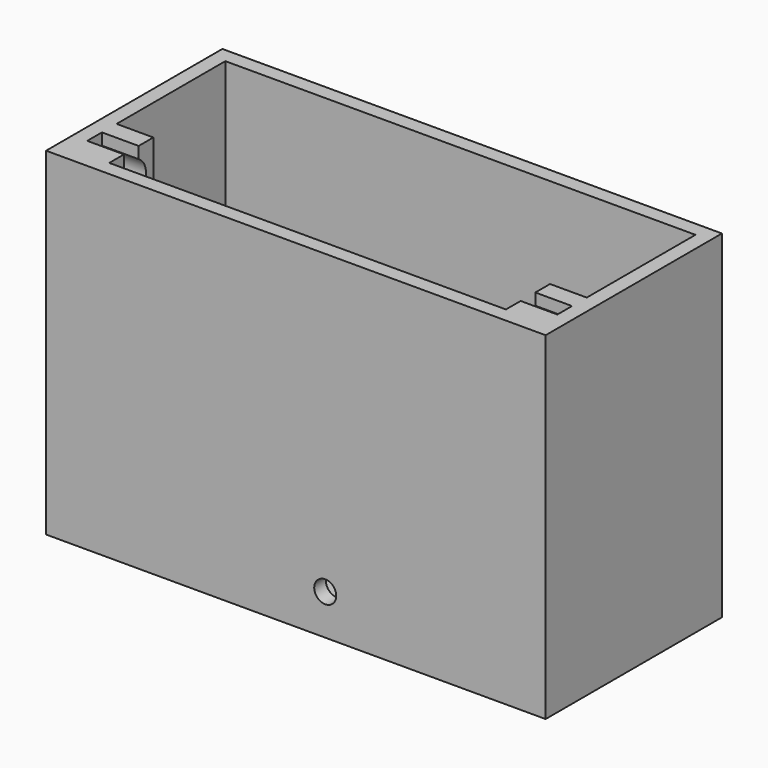
from build123d import *

# Parameters (mm, degrees)
F0_W     = 68
F0_H     = 30
F0_W_2   = 64
F0_H_2   = 26
F1_DEPTH = 46
F2_DEPTH = 2
F3_R     = 1.5
F4_DEPTH = 3
F6_DEPTH = 5
F8_DEPTH = 5


with BuildPart() as f1:
    # F0 (on Top) → F1 (new body)
    with BuildSketch(Plane.XY):
        Rectangle(F0_W, F0_H)
        Rectangle(F0_W_2, F0_H_2, mode=Mode.SUBTRACT)
    extrude(amount=F1_DEPTH)

    # F0 (on Top) → F2 (join)
    with BuildSketch(Plane.XY):
        Rectangle(F0_W, F0_H)
        Rectangle(F0_W_2, F0_H_2, mode=Mode.SUBTRACT)
        Rectangle(F0_W_2, F0_H_2)
    extrude(amount=F2_DEPTH)

    # F3 (on face) → F4 (cut)
    with BuildSketch(Plane.XZ.offset(15)):
        with Locations((4, 5.5)):
            Circle(F3_R)
    extrude(amount=-F4_DEPTH, mode=Mode.SUBTRACT)

    # F5 (on face) → F6 (join)
    with BuildSketch(Plane.YZ.offset(-32)):
        with BuildLine():
            Line((-10.5, 46), (-13, 46))
            Line((-13, 46), (-13, 38.5))
            Line((-13, 38.5), (-10.5, 38.5))
            Line((-10.5, 38.5), (-8, 38.5))
            Line((-8, 38.5), (-5.5, 38.5))
            Line((-5.5, 38.5), (-5.5, 46))
            Line((-5.5, 46), (-8, 46))
            Line((-8, 46), (-8, 44.415064))
            ThreePointArc((-8, 44.415064), (-9.25, 39.75), (-10.5, 44.415064))
            Line((-10.5, 44.415064), (-10.5, 46))
        make_face()
    extrude(amount=F6_DEPTH)

    # F7 (on face) → F8 (join)
    with BuildSketch(Plane(origin=(32, 0, 0), x_dir=(0, -1, 0), z_dir=(-1, 0, 0))):
        with BuildLine():
            Line((13, 38.5), (13, 46))
            Line((13, 46), (10.5, 46))
            Line((10.5, 46), (10.5, 44.415064))
            ThreePointArc((10.5, 44.415064), (9.25, 39.75), (8, 44.415064))
            Line((8, 44.415064), (8, 46))
            Line((8, 46), (5.5, 46))
            Line((5.5, 46), (5.5, 38.5))
            Line((5.5, 38.5), (8, 38.5))
            Line((8, 38.5), (10.5, 38.5))
            Line((10.5, 38.5), (13, 38.5))
        make_face()
    extrude(amount=F8_DEPTH)


solid = f1.part
